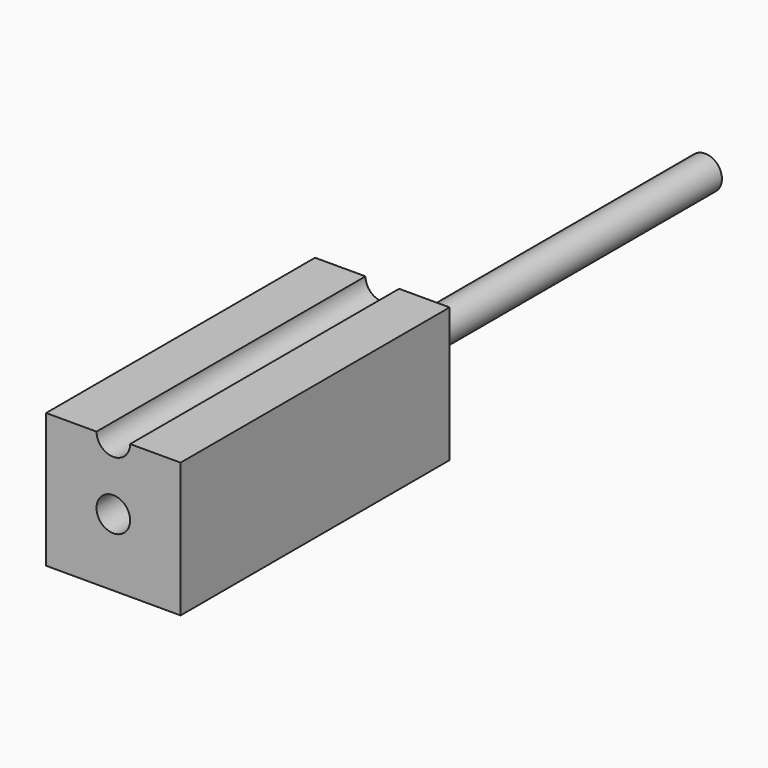
from build123d import *

# Parameters (mm, degrees)
F0_R     = 5
F1_DEPTH = 100
F2_R     = 5
F3_DEPTH = 120


with BuildPart() as f1:
    # F0 (on Front) → F1 (new body)
    with BuildSketch(Plane.XZ):
        with BuildLine():
            Line((-5, 20), (-20, 20))
            Line((-20, 20), (-20, -20))
            Line((-20, -20), (20, -20))
            Line((20, -20), (20, 20))
            Line((20, 20), (5, 20))
            ThreePointArc((5, 20), (0, 15), (-5, 20))
        make_face()
        Circle(F0_R, mode=Mode.SUBTRACT)
    extrude(amount=F1_DEPTH)


with BuildPart() as f3:
    # F2 (on Front) → F3 (new body)
    with BuildSketch(Plane.XZ):
        Circle(F2_R)
    extrude(amount=-F3_DEPTH)


solid = Compound([f1.part, f3.part])
